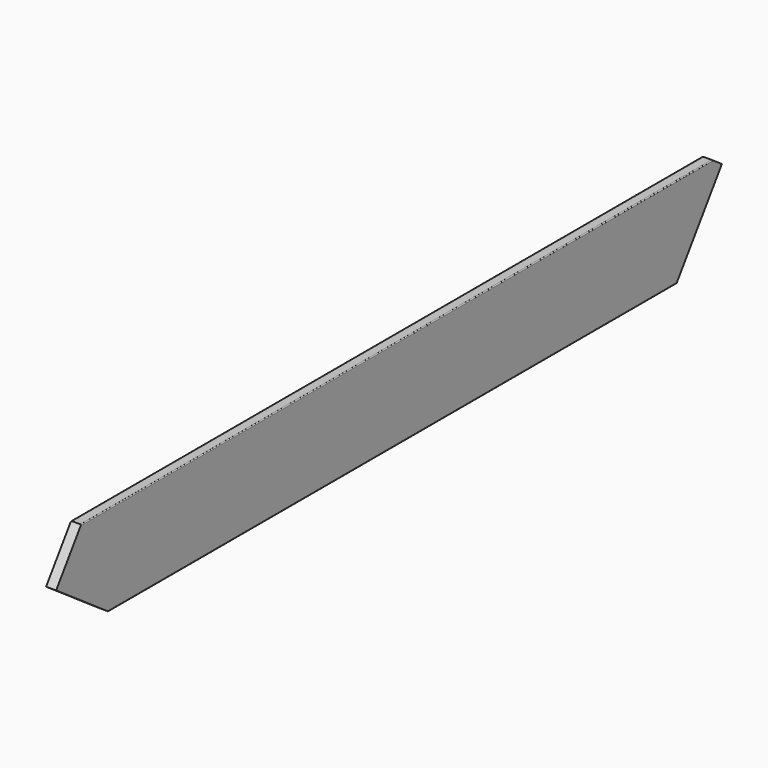
from build123d import *

# Parameters (mm, degrees)
F1_DEPTH = 1828.8
F3_DEPTH = 38.101
F5_DEPTH = 38.101


with BuildPart() as f1:
    # F0 (on Front) → F1 (new body, symmetric)
    with BuildSketch(Plane.XZ):
        with BuildLine():
            ThreePointArc((19.05, 168.275), (18.120064, 170.520064), (15.875, 171.45))
            Line((15.875, 171.45), (-15.875, 171.45))
            ThreePointArc((-15.875, 171.45), (-18.120064, 170.520064), (-19.05, 168.275))
            Line((-19.05, 168.275), (-19.05, -168.275))
            ThreePointArc((-19.05, -168.275), (-18.120064, -170.520064), (-15.875, -171.45))
            Line((-15.875, -171.45), (15.875, -171.45))
            ThreePointArc((15.875, -171.45), (18.120064, -170.520064), (19.05, -168.275))
            Line((19.05, -168.275), (19.05, 168.275))
        make_face()
    extrude(amount=F1_DEPTH, both=True)

    # F2 (on face) → F3 (cut, through all)
    with BuildSketch(Plane.YZ.offset(19.05)):
        Polygon((-1828.8, 0), (-1465.022533, 526.520019), (-2148.896933, 526.520019), (-2148.896933, -171.45), (-1580.648684, -171.45), align=None)
    extrude(amount=-F3_DEPTH, mode=Mode.SUBTRACT)

    # F4 (on face) → F5 (cut, through all)
    with BuildSketch(Plane.YZ.offset(19.05)):
        Polygon((1888.919197, 241.292967), (1178.870832, 241.292967), (1324.705192, 140.534683), (941.482801, -414.129304), (1888.919197, -414.129304), align=None)
    extrude(amount=-F5_DEPTH, mode=Mode.SUBTRACT)


solid = f1.part
